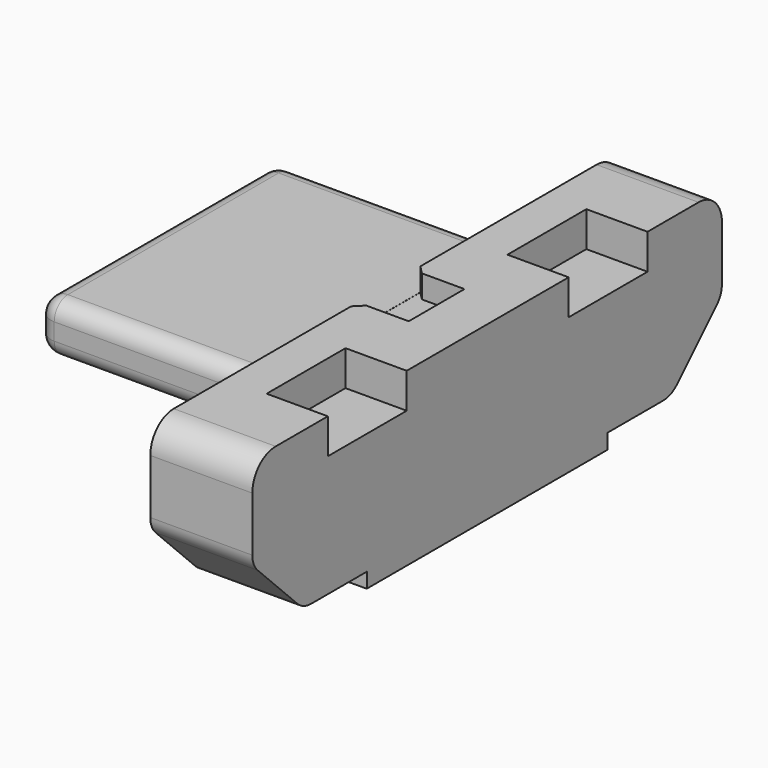
from build123d import *

# Parameters (mm, degrees)
PAD009_DEPTH    = 1.8
PAD008_DEPTH    = 1.2
SKETCH018_W     = 0.214
SKETCH018_H     = 0.247
POCKET007_DEPTH = 0.119
SKETCH019_W     = 0.72
SKETCH019_H     = 1.16
POCKET008_DEPTH = 0.414
POCKET009_DEPTH = 0.27
PAD013_DEPTH    = 2.7
FILLET001_R     = 0.2


with BuildPart() as pad009:
    # Sketch017 → Pad009 (new body, symmetric)
    with BuildSketch(Plane.XZ):
        Polygon((1.529, 0), (1.529, 0.264), (1.708, 0.264), (1.708, 0.145), (2.358, 0.145), (2.358, 0), align=None)
    extrude(amount=PAD009_DEPTH, both=True)


with BuildPart() as part_back:
    # Sketch016 → Pad008 (new body)
    with BuildSketch(Plane(origin=(1.1499999635, -0.0083336435, -0.0078429583), x_dir=(0, 1, 0), z_dir=(1, 0, 0))):
        with BuildLine():
            Line((-3.1093336572, 2.1718425317), (3.1093336572, 2.1718425317))
            ThreePointArc((3.4533336572, 1.8278425317), (3.35257839, 2.0710872645), (3.1093336572, 2.1718425317))
            Line((3.4533336572, 1.8278425317), (3.4533336572, 1.1848425317))
            ThreePointArc((3.3757169542, 0.9974592347), (3.4331617333, 1.0834314222), (3.4533336572, 1.1848425317))
            Line((2.7923538598, 0.4140961402), (3.3757169542, 0.9974592347))
            ThreePointArc((2.588, 0.32945), (2.698595512, 0.3514488151), (2.7923538598, 0.4140961402))
            Line((1.77, 0.32945), (2.588, 0.32945))
            Line((1.77, 0.05045), (1.77, 0.32945))
            Line((1.77, 0.05045), (-1.77, 0.05045))
            Line((-1.77, 0.05045), (-1.77, 0.32945))
            Line((-1.77, 0.32945), (-2.588, 0.32945))
            ThreePointArc((-2.7923538598, 0.4140961402), (-2.698595512, 0.3514488151), (-2.588, 0.32945))
            Line((-3.3757169542, 0.9974592347), (-2.7923538598, 0.4140961402))
            ThreePointArc((-3.4533336572, 1.1848425317), (-3.4331617333, 1.0834314222), (-3.3757169542, 0.9974592347))
            Line((-3.4533336572, 1.8278425317), (-3.4533336572, 1.1848425317))
            ThreePointArc((-3.1093336572, 2.1718425317), (-3.35257839, 2.0710872645), (-3.4533336572, 1.8278425317))
        make_face()
    extrude(amount=PAD008_DEPTH)

    # Cut: cut Pad009
    add(pad009.part, mode=Mode.SUBTRACT)

    # Sketch018 (on Face19 of Cut) → Pocket007 (cut)
    with BuildSketch(Plane(origin=(0, 0, 0.145), x_dir=(1, 0, 0), z_dir=(0, 0, -1))):
        with Locations((1.792, -1.3005)):
            Rectangle(SKETCH018_W, SKETCH018_H)
        with Locations((1.792, -0.6435)):
            Rectangle(SKETCH018_W, SKETCH018_H)
        with Locations((1.792, 0)):
            Rectangle(SKETCH018_W, SKETCH018_H)
        with Locations((1.792, 0.6435)):
            Rectangle(SKETCH018_W, SKETCH018_H)
        with Locations((1.792, 1.3005)):
            Rectangle(SKETCH018_W, SKETCH018_H)
    extrude(amount=-POCKET007_DEPTH, mode=Mode.SUBTRACT)

    # Sketch019 (on Face2 of Pocket007) → Pocket008 (cut)
    with BuildSketch(Plane.XY.offset(2.1639995734)):
        with Locations((1.9899999635, -1.771)):
            Rectangle(SKETCH019_W, SKETCH019_H)
        with Locations((1.9899999635, 1.771)):
            Rectangle(SKETCH019_W, SKETCH019_H)
    extrude(amount=-POCKET008_DEPTH, mode=Mode.SUBTRACT)

    # Sketch020 (on Face2 of Pocket008) → Pocket009 (cut)
    with BuildSketch(Plane.XY.offset(2.1639995734)):
        Polygon((1.249, 0.41), (1.749, 0.41), (1.749, -0.41), (1.249, -0.41), (1.146, -0.513), (1.146, 0.513), align=None)
    extrude(amount=-POCKET009_DEPTH, mode=Mode.SUBTRACT)


with BuildPart() as inner:
    # Sketch029 → Pad013 (new body)
    with BuildSketch(Plane(origin=(-1.5500000108, 1.37e-08, -0.0050004214), x_dir=(0, 1, 0), z_dir=(1, 0, 0))):
        with BuildLine():
            Line((-1.75, 1.6999999949), (-1.75, 1.5000000051))
            ThreePointArc((-1.75, 1.5000000051), (-1.6914213581, 1.3585786456), (-1.55, 1.3))
            Line((-1.55, 1.3), (-1.486, 1.3))
            Line((-1.486, 1.3), (-1.486, 1.514))
            Line((-1.486, 1.514), (-1.115, 1.514))
            Line((-1.115, 1.514), (-1.115, 1.3))
            Line((-1.115, 1.3), (-0.837, 1.3))
            Line((-0.837, 1.3), (-0.837, 1.514))
            Line((-0.837, 1.514), (-0.466, 1.514))
            Line((-0.466, 1.514), (-0.466, 1.3))
            Line((-0.466, 1.3), (-0.188, 1.3))
            Line((-0.188, 1.3), (-0.188, 1.514))
            Line((-0.188, 1.514), (0.183, 1.514))
            Line((0.183, 1.514), (0.183, 1.3))
            Line((0.183, 1.3), (0.461, 1.3))
            Line((0.461, 1.3), (0.461, 1.514))
            Line((0.461, 1.514), (0.832, 1.514))
            Line((0.832, 1.514), (0.832, 1.3))
            Line((0.832, 1.3), (1.11, 1.3))
            Line((1.11, 1.3), (1.11, 1.514))
            Line((1.11, 1.514), (1.481, 1.514))
            Line((1.481, 1.514), (1.481, 1.3))
            Line((1.481, 1.3), (1.55, 1.3))
            ThreePointArc((1.55, 1.3), (1.6914213581, 1.3585786456), (1.75, 1.5000000051))
            Line((1.75, 1.6999999949), (1.75, 1.5000000051))
            ThreePointArc((1.75, 1.6999999949), (1.6914213581, 1.8414213544), (1.55, 1.9))
            Line((-1.55, 1.9), (1.55, 1.9))
            ThreePointArc((-1.55, 1.9), (-1.6914213581, 1.8414213544), (-1.75, 1.6999999949))
        make_face()
    extrude(amount=PAD013_DEPTH)

    # Fillet001
    fillet001_edges = [inner.edges().sort_by_distance(p)[0] for p in [
        (-1.55, -1.75, 1.595),
        (-1.55, -1.691421, 1.353578),
        (-1.55, 1.691421, 1.353578),
        (-1.55, 1.75, 1.595),
        (-1.55, 1.691421, 1.836421),
        (-1.55, 0, 1.895),
        (-1.55, -1.691421, 1.836421),
    ]]
    fillet(fillet001_edges, radius=FILLET001_R)

    # Fusion002: union Part-back
    add(part_back.part)


solid = inner.part
